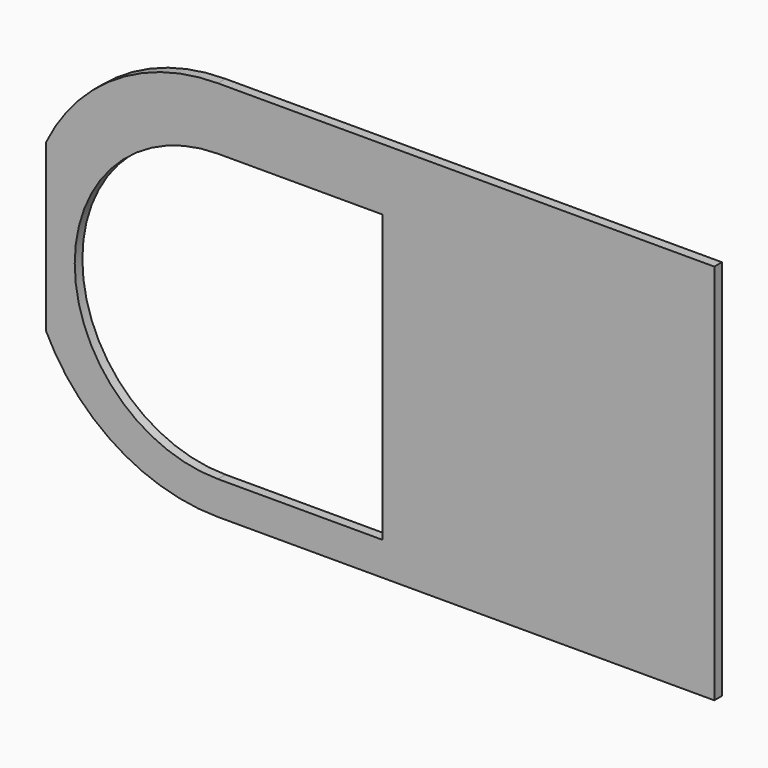
from build123d import *

# Parameters (mm, degrees)
F1_DEPTH = 2.54


with BuildPart() as f1:
    # F0 (on Front) → F1 (new body)
    with BuildSketch(Plane.XZ):
        with BuildLine():
            Line((-45.72, 29.41983), (-45.72, -14.866583))
            ThreePointArc((-45.72, -14.866583), (-26.979299, -35.767046), (0, -43.523377))
            Line((0, -43.523377), (132.08, -43.523377))
            Line((132.08, -43.523377), (132.08, 58.076623))
            Line((132.08, 58.076623), (0, 58.076623))
            ThreePointArc((0, 58.076623), (-26.979299, 50.320292), (-45.72, 29.41983))
        make_face()
        with BuildLine():
            ThreePointArc((0, -34.633377), (-38.1, 3.466623), (0, 41.566623))
            Line((0, 41.566623), (43.815, 41.566623))
            Line((43.815, 41.566623), (43.815, -34.633377))
            Line((43.815, -34.633377), (0, -34.633377))
        make_face(mode=Mode.SUBTRACT)
    extrude(amount=F1_DEPTH)


solid = f1.part
